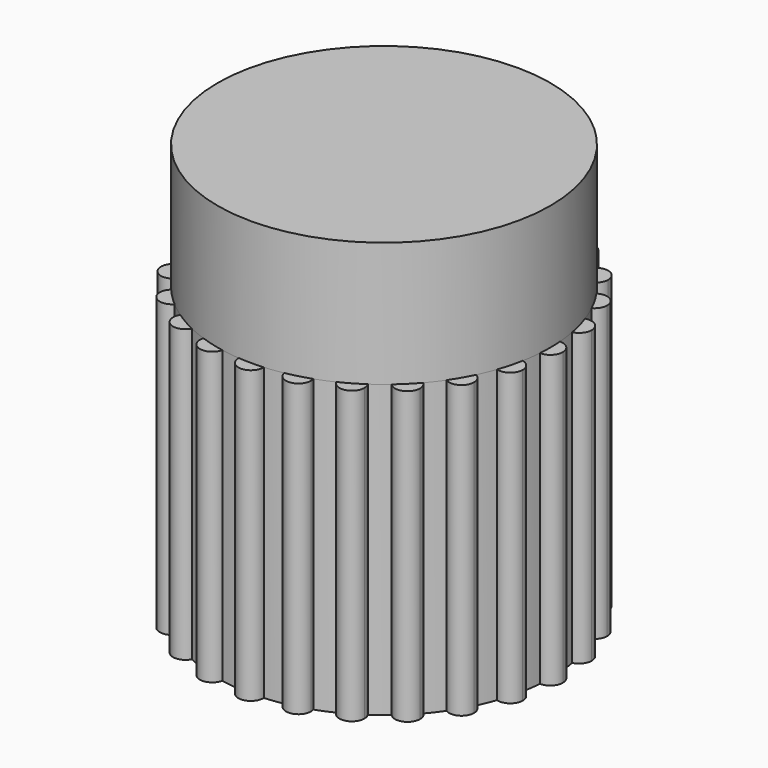
from build123d import *

# Parameters (mm, degrees)
F0_R     = 3.175
F2_DEPTH = 8.89
F1_W     = 5.08
F1_H     = 2.032
F3_DEPTH = 8.89
F5_R     = 5.08
F6_DEPTH = 3.81


with BuildPart() as f2:
    # F0 (on Top) → F2 (new body)
    with BuildSketch(Plane.XY):
        with BuildLine():
            ThreePointArc((5.0657125, -0.3807320151), (5.0764268684, -0.1905), (5.08, 0))
            ThreePointArc((5.08, 0), (5.0764268684, 0.1905), (5.0657125, 0.3807320151))
            ThreePointArc((5.0657125, 0.3807320151), (4.699, 0), (5.0657125, -0.3807320151))
        make_face()
        with BuildLine():
            ThreePointArc((5.0657125, 0.3807320151), (5.0764268684, 0.1905), (5.08, 0))
            ThreePointArc((5.08, 0), (5.0764268684, -0.1905), (5.0657125, -0.3807320151))
            ThreePointArc((5.0657125, -0.3807320151), (5.3443080234, -0.2744125885), (5.461, 0))
            ThreePointArc((5.461, 0), (5.3443080234, 0.2744125885), (5.0657125, 0.3807320151))
        make_face()
        with BuildLine():
            ThreePointArc((5.0657125, -0.3807320151), (4.699, 0), (5.0657125, 0.3807320151))
            ThreePointArc((5.0657125, 0.3807320151), (5.0365398958, 0.6630730565), (4.9916432289, 0.9433439857))
            ThreePointArc((4.9916432289, 0.9433439857), (4.5388854577, 1.2161906929), (4.7945618357, 1.6788617583))
            ThreePointArc((4.7945618357, 1.6788617583), (4.6933080252, 1.9440318364), (4.5774017208, 2.2031326529))
            ThreePointArc((4.5774017208, 2.2031326529), (4.0694533724, 2.3495), (4.1966697057, 2.8625798471))
            ThreePointArc((4.1966697057, 2.8625798471), (4.0302349687, 3.0925080594), (3.85121785, 3.3127814706))
            ThreePointArc((3.85121785, 3.3127814706), (3.3226947648, 3.3226947648), (3.3127814706, 3.85121785))
            ThreePointArc((3.3127814706, 3.85121785), (3.0925080594, 4.0302349687), (2.8625798471, 4.1966697057))
            ThreePointArc((2.8625798471, 4.1966697057), (2.3495, 4.0694533724), (2.2031326529, 4.5774017208))
            ThreePointArc((2.2031326529, 4.5774017208), (1.9440318364, 4.6933080252), (1.6788617583, 4.7945618357))
            ThreePointArc((1.6788617583, 4.7945618357), (1.2161906929, 4.5388854577), (0.9433439857, 4.9916432289))
            ThreePointArc((0.9433439857, 4.9916432289), (0.6630730565, 5.0365398958), (0.3807320151, 5.0657125))
            ThreePointArc((0.3807320151, 5.0657125), (0, 4.699), (-0.3807320151, 5.0657125))
            ThreePointArc((-0.3807320151, 5.0657125), (-0.6630730565, 5.0365398958), (-0.9433439857, 4.9916432289))
            ThreePointArc((-0.9433439857, 4.9916432289), (-0.9361940753, 4.9495410513), (-0.9338007491, 4.9069031975))
            ThreePointArc((-0.9338007491, 4.9069031975), (-1.2579951354, 4.5301617448), (-1.6788617583, 4.7945618357))
            ThreePointArc((-1.6788617583, 4.7945618357), (-1.9440318364, 4.6933080252), (-2.2031326529, 4.5774017208))
            ThreePointArc((-2.2031326529, 4.5774017208), (-2.1701977155, 4.4911002197), (-2.159, 4.3994090512))
            ThreePointArc((-2.159, 4.3994090512), (-2.4345057389, 4.0333052942), (-2.8625798471, 4.1966697057))
            ThreePointArc((-2.8625798471, 4.1966697057), (-3.0925080594, 4.0302349687), (-3.3127814706, 3.85121785))
            ThreePointArc((-3.3127814706, 3.85121785), (-3.2374319728, 3.7312780703), (-3.2111024484, 3.5921024484))
            ThreePointArc((-3.2111024484, 3.5921024484), (-3.439724576, 3.242900524), (-3.85121785, 3.3127814706))
            ThreePointArc((-3.85121785, 3.3127814706), (-4.0302349687, 3.0925080594), (-4.1966697057, 2.8625798471))
            ThreePointArc((-4.1966697057, 2.8625798471), (-4.0659388947, 2.7242787418), (-4.0184090512, 2.54))
            ThreePointArc((-4.0184090512, 2.54), (-4.2027547951, 2.2136748499), (-4.5774017208, 2.2031326529))
            ThreePointArc((-4.5774017208, 2.2031326529), (-4.6933080252, 1.9440318364), (-4.7945618357, 1.6788617583))
            ThreePointArc((-4.7945618357, 1.6788617583), (-4.6003391269, 1.5410295505), (-4.5259031975, 1.3148007491))
            ThreePointArc((-4.5259031975, 1.3148007491), (-4.6693373666, 1.0169358872), (-4.9916432289, 0.9433439857))
            ThreePointArc((-4.9916432289, 0.9433439857), (-5.0365398958, 0.6630730565), (-5.0657125, 0.3807320151))
            ThreePointArc((-5.0657125, 0.3807320151), (-4.8055874115, 0.2643080234), (-4.699, 0))
            ThreePointArc((-4.699, 0), (-4.8055874115, -0.2643080234), (-5.0657125, -0.3807320151))
            ThreePointArc((-5.0657125, -0.3807320151), (-5.0365398958, -0.6630730565), (-4.9916432289, -0.9433439857))
            ThreePointArc((-4.9916432289, -0.9433439857), (-4.6693373666, -1.0169358872), (-4.5259031975, -1.3148007491))
            ThreePointArc((-4.5259031975, -1.3148007491), (-4.6003391269, -1.5410295505), (-4.7945618357, -1.6788617583))
            ThreePointArc((-4.7945618357, -1.6788617583), (-4.6933080252, -1.9440318364), (-4.5774017208, -2.2031326529))
            ThreePointArc((-4.5774017208, -2.2031326529), (-4.2027547951, -2.2136748499), (-4.0184090512, -2.54))
            ThreePointArc((-4.0184090512, -2.54), (-4.0659388947, -2.7242787418), (-4.1966697057, -2.8625798471))
            ThreePointArc((-4.1966697057, -2.8625798471), (-4.0302349687, -3.0925080594), (-3.85121785, -3.3127814706))
            ThreePointArc((-3.85121785, -3.3127814706), (-3.439724576, -3.242900524), (-3.2111024484, -3.5921024484))
            ThreePointArc((-3.2111024484, -3.5921024484), (-3.2374319728, -3.7312780703), (-3.3127814706, -3.85121785))
            ThreePointArc((-3.3127814706, -3.85121785), (-3.0925080594, -4.0302349687), (-2.8625798471, -4.1966697057))
            ThreePointArc((-2.8625798471, -4.1966697057), (-2.4345057389, -4.0333052942), (-2.159, -4.3994090512))
            ThreePointArc((-2.159, -4.3994090512), (-2.1701977155, -4.4911002197), (-2.2031326529, -4.5774017208))
            ThreePointArc((-2.2031326529, -4.5774017208), (-1.9440318364, -4.6933080252), (-1.6788617583, -4.7945618357))
            ThreePointArc((-1.6788617583, -4.7945618357), (-1.2579951354, -4.5301617448), (-0.9338007491, -4.9069031975))
            ThreePointArc((-0.9338007491, -4.9069031975), (-0.9361940753, -4.9495410513), (-0.9433439857, -4.9916432289))
            ThreePointArc((-0.9433439857, -4.9916432289), (-0.6630730565, -5.0365398958), (-0.3807320151, -5.0657125))
            ThreePointArc((-0.3807320151, -5.0657125), (0, -4.699), (0.3807320151, -5.0657125))
            ThreePointArc((0.3807320151, -5.0657125), (0.6630730565, -5.0365398958), (0.9433439857, -4.9916432289))
            ThreePointArc((0.9433439857, -4.9916432289), (1.2161906929, -4.5388854577), (1.6788617583, -4.7945618357))
            ThreePointArc((1.6788617583, -4.7945618357), (1.9440318364, -4.6933080252), (2.2031326529, -4.5774017208))
            ThreePointArc((2.2031326529, -4.5774017208), (2.3495, -4.0694533724), (2.8625798471, -4.1966697057))
            ThreePointArc((2.8625798471, -4.1966697057), (3.0925080594, -4.0302349687), (3.3127814706, -3.85121785))
            ThreePointArc((3.3127814706, -3.85121785), (3.3226947648, -3.3226947648), (3.85121785, -3.3127814706))
            ThreePointArc((3.85121785, -3.3127814706), (4.0302349687, -3.0925080594), (4.1966697057, -2.8625798471))
            ThreePointArc((4.1966697057, -2.8625798471), (4.0694533724, -2.3495), (4.5774017208, -2.2031326529))
            ThreePointArc((4.5774017208, -2.2031326529), (4.6933080252, -1.9440318364), (4.7945618357, -1.6788617583))
            ThreePointArc((4.7945618357, -1.6788617583), (4.5388854577, -1.2161906929), (4.9916432289, -0.9433439857))
            ThreePointArc((4.9916432289, -0.9433439857), (5.0365398958, -0.6630730565), (5.0657125, -0.3807320151))
        make_face()
        Circle(F0_R, mode=Mode.SUBTRACT)
        with BuildLine():
            ThreePointArc((4.7945618357, 1.6788617583), (4.5388854577, 1.2161906929), (4.9916432289, 0.9433439857))
            ThreePointArc((4.9916432289, 0.9433439857), (4.9069031975, 1.3148007491), (4.7945618357, 1.6788617583))
        make_face()
        with BuildLine():
            ThreePointArc((4.7945618357, 1.6788617583), (4.9069031975, 1.3148007491), (4.9916432289, 0.9433439857))
            ThreePointArc((4.9916432289, 0.9433439857), (5.2047680595, 1.0772349182), (5.2879031975, 1.3148007491))
            ThreePointArc((5.2879031975, 1.3148007491), (5.1331319989, 1.6213648198), (4.7945618357, 1.6788617583))
        make_face()
        with BuildLine():
            ThreePointArc((5.2879031975, -1.3148007491), (5.2047680595, -1.0772349182), (4.9916432289, -0.9433439857))
            ThreePointArc((4.9916432289, -0.9433439857), (4.9069031975, -1.3148007491), (4.7945618357, -1.6788617583))
            ThreePointArc((4.7945618357, -1.6788617583), (5.1331319989, -1.6213648198), (5.2879031975, -1.3148007491))
        make_face()
        with BuildLine():
            ThreePointArc((4.7945618357, -1.6788617583), (4.9069031975, -1.3148007491), (4.9916432289, -0.9433439857))
            ThreePointArc((4.9916432289, -0.9433439857), (4.5388854577, -1.2161906929), (4.7945618357, -1.6788617583))
        make_face()
        with BuildLine():
            ThreePointArc((4.1966697057, 2.8625798471), (4.0694533724, 2.3495), (4.5774017208, 2.2031326529))
            ThreePointArc((4.5774017208, 2.2031326529), (4.3994090512, 2.54), (4.1966697057, 2.8625798471))
        make_face()
        with BuildLine():
            ThreePointArc((4.1966697057, 2.8625798471), (4.3994090512, 2.54), (4.5774017208, 2.2031326529))
            ThreePointArc((4.5774017208, 2.2031326529), (4.7257342013, 2.3433457439), (4.7804090512, 2.54))
            ThreePointArc((4.7804090512, 2.54), (4.583687793, 2.8734701566), (4.1966697057, 2.8625798471))
        make_face()
        with BuildLine():
            ThreePointArc((4.7804090512, -2.54), (4.7257342013, -2.3433457439), (4.5774017208, -2.2031326529))
            ThreePointArc((4.5774017208, -2.2031326529), (4.3994090512, -2.54), (4.1966697057, -2.8625798471))
            ThreePointArc((4.1966697057, -2.8625798471), (4.583687793, -2.8734701566), (4.7804090512, -2.54))
        make_face()
        with BuildLine():
            ThreePointArc((4.1966697057, -2.8625798471), (4.3994090512, -2.54), (4.5774017208, -2.2031326529))
            ThreePointArc((4.5774017208, -2.2031326529), (4.0694533724, -2.3495), (4.1966697057, -2.8625798471))
        make_face()
        with BuildLine():
            ThreePointArc((3.3127814706, 3.85121785), (3.3226947648, 3.3226947648), (3.85121785, 3.3127814706))
            ThreePointArc((3.85121785, 3.3127814706), (3.5921024484, 3.5921024484), (3.3127814706, 3.85121785))
        make_face()
        with BuildLine():
            ThreePointArc((3.3127814706, 3.85121785), (3.5921024484, 3.5921024484), (3.85121785, 3.3127814706))
            ThreePointArc((3.85121785, 3.3127814706), (3.9413043728, 3.439724576), (3.9731024484, 3.5921024484))
            ThreePointArc((3.9731024484, 3.5921024484), (3.7312780703, 3.9467729241), (3.3127814706, 3.85121785))
        make_face()
        with BuildLine():
            ThreePointArc((3.9731024484, -3.5921024484), (3.9413043728, -3.439724576), (3.85121785, -3.3127814706))
            ThreePointArc((3.85121785, -3.3127814706), (3.5921024484, -3.5921024484), (3.3127814706, -3.85121785))
            ThreePointArc((3.3127814706, -3.85121785), (3.7312780703, -3.9467729241), (3.9731024484, -3.5921024484))
        make_face()
        with BuildLine():
            ThreePointArc((3.3127814706, -3.85121785), (3.5921024484, -3.5921024484), (3.85121785, -3.3127814706))
            ThreePointArc((3.85121785, -3.3127814706), (3.3226947648, -3.3226947648), (3.3127814706, -3.85121785))
        make_face()
        with BuildLine():
            ThreePointArc((2.2031326529, 4.5774017208), (2.3495, 4.0694533724), (2.8625798471, 4.1966697057))
            ThreePointArc((2.8625798471, 4.1966697057), (2.54, 4.3994090512), (2.2031326529, 4.5774017208))
        make_face()
        with BuildLine():
            ThreePointArc((2.2031326529, 4.5774017208), (2.54, 4.3994090512), (2.8625798471, 4.1966697057))
            ThreePointArc((2.8625798471, 4.1966697057), (2.906103757, 4.2939147901), (2.921, 4.3994090512))
            ThreePointArc((2.921, 4.3994090512), (2.6316911684, 4.7692113357), (2.2031326529, 4.5774017208))
        make_face()
        with BuildLine():
            ThreePointArc((2.921, -4.3994090512), (2.906103757, -4.2939147901), (2.8625798471, -4.1966697057))
            ThreePointArc((2.8625798471, -4.1966697057), (2.54, -4.3994090512), (2.2031326529, -4.5774017208))
            ThreePointArc((2.2031326529, -4.5774017208), (2.6316911684, -4.7692113357), (2.921, -4.3994090512))
        make_face()
        with BuildLine():
            ThreePointArc((2.2031326529, -4.5774017208), (2.54, -4.3994090512), (2.8625798471, -4.1966697057))
            ThreePointArc((2.8625798471, -4.1966697057), (2.3495, -4.0694533724), (2.2031326529, -4.5774017208))
        make_face()
        with BuildLine():
            ThreePointArc((0.9433439857, 4.9916432289), (1.2161906929, 4.5388854577), (1.6788617583, 4.7945618357))
            ThreePointArc((1.6788617583, 4.7945618357), (1.3148007491, 4.9069031975), (0.9433439857, 4.9916432289))
        make_face()
        with BuildLine():
            ThreePointArc((0.9433439857, 4.9916432289), (1.3148007491, 4.9069031975), (1.6788617583, 4.7945618357))
            ThreePointArc((1.6788617583, 4.7945618357), (1.6915422019, 4.8500975839), (1.6958007491, 4.9069031975))
            ThreePointArc((1.6958007491, 4.9069031975), (1.3574386028, 5.2855098713), (0.9433439857, 4.9916432289))
        make_face()
        with BuildLine():
            ThreePointArc((1.6958007491, -4.9069031975), (1.6915422019, -4.8500975839), (1.6788617583, -4.7945618357))
            ThreePointArc((1.6788617583, -4.7945618357), (1.3148007491, -4.9069031975), (0.9433439857, -4.9916432289))
            ThreePointArc((0.9433439857, -4.9916432289), (1.3574386028, -5.2855098713), (1.6958007491, -4.9069031975))
        make_face()
        with BuildLine():
            ThreePointArc((0.9433439857, -4.9916432289), (1.3148007491, -4.9069031975), (1.6788617583, -4.7945618357))
            ThreePointArc((1.6788617583, -4.7945618357), (1.2161906929, -4.5388854577), (0.9433439857, -4.9916432289))
        make_face()
        with BuildLine():
            ThreePointArc((-0.3807320151, 5.0657125), (0, 4.699), (0.3807320151, 5.0657125))
            ThreePointArc((0.3807320151, 5.0657125), (0, 5.08), (-0.3807320151, 5.0657125))
        make_face()
        with BuildLine():
            ThreePointArc((-0.3807320151, 5.0657125), (0, 5.08), (0.3807320151, 5.0657125))
            ThreePointArc((0.3807320151, 5.0657125), (0.3809329979, 5.0728549935), (0.381, 5.08))
            ThreePointArc((0.381, 5.08), (-0.0071450065, 5.4609329979), (-0.3807320151, 5.0657125))
        make_face()
        with BuildLine():
            ThreePointArc((0.381, -5.08), (0.3809329979, -5.0728549935), (0.3807320151, -5.0657125))
            ThreePointArc((0.3807320151, -5.0657125), (0, -5.08), (-0.3807320151, -5.0657125))
            ThreePointArc((-0.3807320151, -5.0657125), (-0.0071450065, -5.4609329979), (0.381, -5.08))
        make_face()
        with BuildLine():
            ThreePointArc((-0.3807320151, -5.0657125), (0, -5.08), (0.3807320151, -5.0657125))
            ThreePointArc((0.3807320151, -5.0657125), (0, -4.699), (-0.3807320151, -5.0657125))
        make_face()
        with BuildLine():
            ThreePointArc((-0.9338007491, 4.9069031975), (-0.9361940753, 4.9495410513), (-0.9433439857, 4.9916432289))
            ThreePointArc((-0.9433439857, 4.9916432289), (-1.3148007491, 4.9069031975), (-1.6788617583, 4.7945618357))
            ThreePointArc((-1.6788617583, 4.7945618357), (-1.2579951354, 4.5301617448), (-0.9338007491, 4.9069031975))
        make_face()
        with BuildLine():
            ThreePointArc((-1.6788617583, 4.7945618357), (-1.3148007491, 4.9069031975), (-0.9433439857, 4.9916432289))
            ThreePointArc((-0.9433439857, 4.9916432289), (-1.4134108053, 5.2749209374), (-1.6788617583, 4.7945618357))
        make_face()
        with BuildLine():
            ThreePointArc((-1.6788617583, -4.7945618357), (-1.4134108053, -5.2749209374), (-0.9433439857, -4.9916432289))
            ThreePointArc((-0.9433439857, -4.9916432289), (-1.3148007491, -4.9069031975), (-1.6788617583, -4.7945618357))
        make_face()
        with BuildLine():
            ThreePointArc((-1.6788617583, -4.7945618357), (-1.3148007491, -4.9069031975), (-0.9433439857, -4.9916432289))
            ThreePointArc((-0.9433439857, -4.9916432289), (-0.9361940753, -4.9495410513), (-0.9338007491, -4.9069031975))
            ThreePointArc((-0.9338007491, -4.9069031975), (-1.2579951354, -4.5301617448), (-1.6788617583, -4.7945618357))
        make_face()
        with BuildLine():
            ThreePointArc((-2.159, 4.3994090512), (-2.1701977155, 4.4911002197), (-2.2031326529, 4.5774017208))
            ThreePointArc((-2.2031326529, 4.5774017208), (-2.54, 4.3994090512), (-2.8625798471, 4.1966697057))
            ThreePointArc((-2.8625798471, 4.1966697057), (-2.4345057389, 4.0333052942), (-2.159, 4.3994090512))
        make_face()
        with BuildLine():
            ThreePointArc((-2.8625798471, 4.1966697057), (-2.54, 4.3994090512), (-2.2031326529, 4.5774017208))
            ThreePointArc((-2.2031326529, 4.5774017208), (-2.7305, 4.7293647301), (-2.8625798471, 4.1966697057))
        make_face()
        with BuildLine():
            ThreePointArc((-2.8625798471, -4.1966697057), (-2.7305, -4.7293647301), (-2.2031326529, -4.5774017208))
            ThreePointArc((-2.2031326529, -4.5774017208), (-2.54, -4.3994090512), (-2.8625798471, -4.1966697057))
        make_face()
        with BuildLine():
            ThreePointArc((-2.8625798471, -4.1966697057), (-2.54, -4.3994090512), (-2.2031326529, -4.5774017208))
            ThreePointArc((-2.2031326529, -4.5774017208), (-2.1701977155, -4.4911002197), (-2.159, -4.3994090512))
            ThreePointArc((-2.159, -4.3994090512), (-2.4345057389, -4.0333052942), (-2.8625798471, -4.1966697057))
        make_face()
        with BuildLine():
            ThreePointArc((-3.2111024484, 3.5921024484), (-3.2374319728, 3.7312780703), (-3.3127814706, 3.85121785))
            ThreePointArc((-3.3127814706, 3.85121785), (-3.5921024484, 3.5921024484), (-3.85121785, 3.3127814706))
            ThreePointArc((-3.85121785, 3.3127814706), (-3.439724576, 3.242900524), (-3.2111024484, 3.5921024484))
        make_face()
        with BuildLine():
            ThreePointArc((-3.85121785, 3.3127814706), (-3.5921024484, 3.5921024484), (-3.3127814706, 3.85121785))
            ThreePointArc((-3.3127814706, 3.85121785), (-3.8615101321, 3.8615101321), (-3.85121785, 3.3127814706))
        make_face()
        with BuildLine():
            ThreePointArc((-3.85121785, -3.3127814706), (-3.8615101321, -3.8615101321), (-3.3127814706, -3.85121785))
            ThreePointArc((-3.3127814706, -3.85121785), (-3.5921024484, -3.5921024484), (-3.85121785, -3.3127814706))
        make_face()
        with BuildLine():
            ThreePointArc((-3.85121785, -3.3127814706), (-3.5921024484, -3.5921024484), (-3.3127814706, -3.85121785))
            ThreePointArc((-3.3127814706, -3.85121785), (-3.2374319728, -3.7312780703), (-3.2111024484, -3.5921024484))
            ThreePointArc((-3.2111024484, -3.5921024484), (-3.439724576, -3.242900524), (-3.85121785, -3.3127814706))
        make_face()
        with BuildLine():
            ThreePointArc((-4.0184090512, 2.54), (-4.0659388947, 2.7242787418), (-4.1966697057, 2.8625798471))
            ThreePointArc((-4.1966697057, 2.8625798471), (-4.3994090512, 2.54), (-4.5774017208, 2.2031326529))
            ThreePointArc((-4.5774017208, 2.2031326529), (-4.2027547951, 2.2136748499), (-4.0184090512, 2.54))
        make_face()
        with BuildLine():
            ThreePointArc((-4.5774017208, 2.2031326529), (-4.3994090512, 2.54), (-4.1966697057, 2.8625798471))
            ThreePointArc((-4.1966697057, 2.8625798471), (-4.7293647301, 2.7305), (-4.5774017208, 2.2031326529))
        make_face()
        with BuildLine():
            ThreePointArc((-4.5774017208, -2.2031326529), (-4.7293647301, -2.7305), (-4.1966697057, -2.8625798471))
            ThreePointArc((-4.1966697057, -2.8625798471), (-4.3994090512, -2.54), (-4.5774017208, -2.2031326529))
        make_face()
        with BuildLine():
            ThreePointArc((-4.5774017208, -2.2031326529), (-4.3994090512, -2.54), (-4.1966697057, -2.8625798471))
            ThreePointArc((-4.1966697057, -2.8625798471), (-4.0659388947, -2.7242787418), (-4.0184090512, -2.54))
            ThreePointArc((-4.0184090512, -2.54), (-4.2027547951, -2.2136748499), (-4.5774017208, -2.2031326529))
        make_face()
        with BuildLine():
            ThreePointArc((-4.5259031975, 1.3148007491), (-4.6003391269, 1.5410295505), (-4.7945618357, 1.6788617583))
            ThreePointArc((-4.7945618357, 1.6788617583), (-4.9069031975, 1.3148007491), (-4.9916432289, 0.9433439857))
            ThreePointArc((-4.9916432289, 0.9433439857), (-4.6693373666, 1.0169358872), (-4.5259031975, 1.3148007491))
        make_face()
        with BuildLine():
            ThreePointArc((-4.9916432289, 0.9433439857), (-4.9069031975, 1.3148007491), (-4.7945618357, 1.6788617583))
            ThreePointArc((-4.7945618357, 1.6788617583), (-5.2749209374, 1.4134108053), (-4.9916432289, 0.9433439857))
        make_face()
        with BuildLine():
            ThreePointArc((-4.9916432289, -0.9433439857), (-5.2749209374, -1.4134108053), (-4.7945618357, -1.6788617583))
            ThreePointArc((-4.7945618357, -1.6788617583), (-4.9069031975, -1.3148007491), (-4.9916432289, -0.9433439857))
        make_face()
        with BuildLine():
            ThreePointArc((-4.9916432289, -0.9433439857), (-4.9069031975, -1.3148007491), (-4.7945618357, -1.6788617583))
            ThreePointArc((-4.7945618357, -1.6788617583), (-4.6003391269, -1.5410295505), (-4.5259031975, -1.3148007491))
            ThreePointArc((-4.5259031975, -1.3148007491), (-4.6693373666, -1.0169358872), (-4.9916432289, -0.9433439857))
        make_face()
        with BuildLine():
            ThreePointArc((-4.699, 0), (-4.8055874115, 0.2643080234), (-5.0657125, 0.3807320151))
            ThreePointArc((-5.0657125, 0.3807320151), (-5.08, 0), (-5.0657125, -0.3807320151))
            ThreePointArc((-5.0657125, -0.3807320151), (-4.8055874115, -0.2643080234), (-4.699, 0))
        make_face()
        with BuildLine():
            ThreePointArc((-5.0657125, -0.3807320151), (-5.08, 0), (-5.0657125, 0.3807320151))
            ThreePointArc((-5.0657125, 0.3807320151), (-5.461, 0), (-5.0657125, -0.3807320151))
        make_face()
    extrude(amount=F2_DEPTH)

    # F1 (on Top) → F3 (join)
    with BuildSketch(Plane.XY):
        with Locations((0, -2.667)):
            Rectangle(F1_W, F1_H)
    extrude(amount=F3_DEPTH)

    # F5 (on offset) → F6 (join)
    with BuildSketch(Plane.XY.offset(8.89)):
        Circle(F5_R)
    extrude(amount=F6_DEPTH)


solid = f2.part
